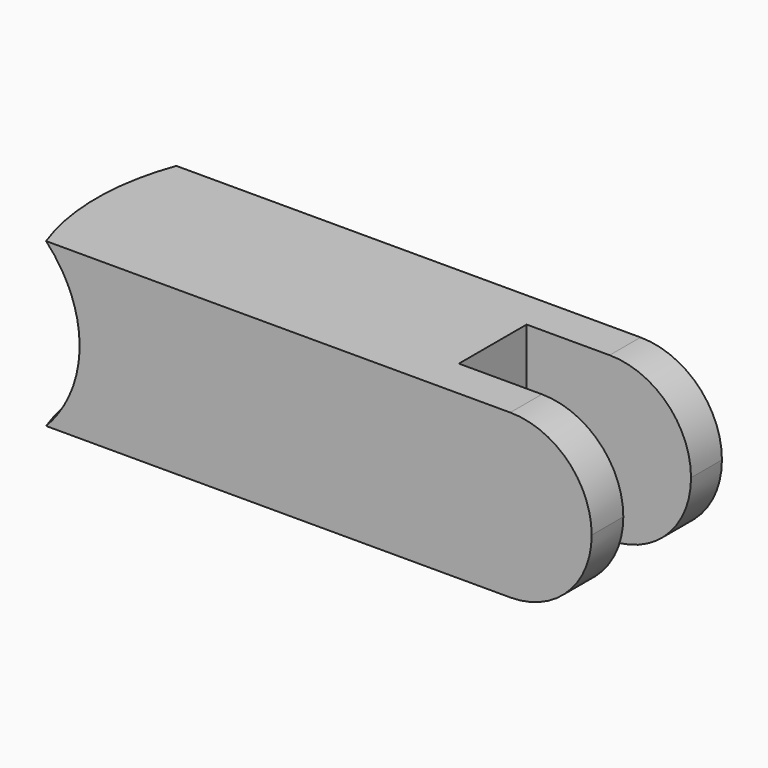
from build123d import *

# Parameters (mm, degrees)
F0_W          = 50.8
F0_H          = 12.7
F1_DEPTH      = 12.7
F6_R          = 9.525
F7_ANGLE_BACK = 30
F7_ANGLE      = 60
F9_DEPTH      = 25.4
F10_W         = 12.827
F10_H         = 3.302
F11_DEPTH     = 25.4


with BuildPart() as f1:
    # F0 (on Top) → F1 (new body)
    with BuildSketch(Plane.XY):
        with Locations((25.4, 6.35)):
            Rectangle(F0_W, F0_H)
    extrude(amount=F1_DEPTH)

    # F6 (on 3pt) → F7 (revolve, cut)
    with BuildSketch(Plane(origin=(0, 6.35, 0), x_dir=(-1, 0, 0), z_dir=(0, 1, 0)), mode=Mode.PRIVATE) as f7_sk:
        with Locations((0, 6.35)):
            Circle(F6_R)
    revolve(f7_sk.sketch.rotate(Axis((25.4, 6.35, 6.3316160813), (0, 0, 1)), -F7_ANGLE_BACK), axis=Axis((25.4, 6.35, 6.3316160813), (0, 0, 1)), revolution_arc=F7_ANGLE, mode=Mode.SUBTRACT)

    # F8 (on face) → F9 (cut)
    with BuildSketch(Plane(origin=(0, 12.7, 0), x_dir=(-1, 0, 0), z_dir=(0, 1, 0))):
        with BuildLine():
            ThreePointArc((-50.8, 6.35), (-48.9401280605, 10.8401280605), (-44.45, 12.7))
            Line((-44.45, 12.7), (-50.8, 12.7))
            Line((-50.8, 12.7), (-50.8, 6.35))
        make_face()
        with BuildLine():
            ThreePointArc((-44.45, 0), (-48.9401280605, 1.8598719395), (-50.8, 6.35))
            Line((-50.8, 6.35), (-50.8, 0))
            Line((-50.8, 0), (-44.45, 0))
        make_face()
    extrude(amount=-F9_DEPTH, mode=Mode.SUBTRACT)

    # F10 (on face) → F11 (cut)
    with BuildSketch(Plane.XY.offset(12.7)):
        with Locations((44.3865, 4.7349631403)):
            Rectangle(F10_W, F10_H)
        with Locations((44.3865, 8.0369631403)):
            Rectangle(F10_W, F10_H)
    extrude(amount=-F11_DEPTH, mode=Mode.SUBTRACT)


solid = f1.part
